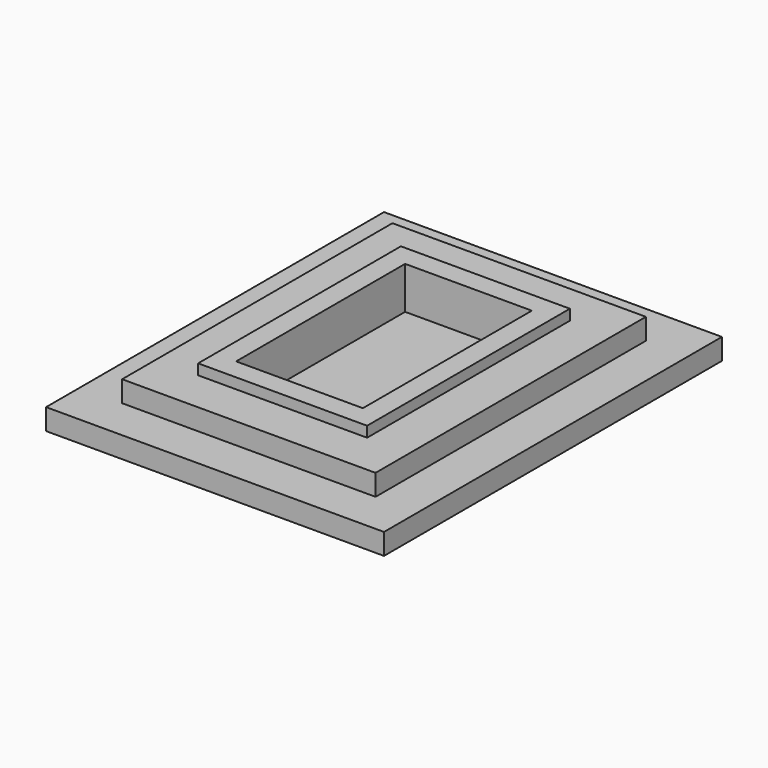
from build123d import *

# Parameters (mm, degrees)
F0_W      = 406.4
F0_H      = 101.6
F1_DEPTH  = 25.4
F2_W      = 50.8
F2_H      = 101.6
F3_DEPTH  = 508
F4_W      = 406.4
F4_H      = 101.6
F5_DEPTH  = 50.8
F6_W      = 406.4
F6_H      = 609.6
F7_DEPTH  = 25.4
F8_W      = 406.4
F8_H      = 50.8
F9_DEPTH  = 203.2
F10_W     = 406.4
F10_H     = 50.8
F11_DEPTH = 101.6
F12_W     = 406.4
F12_H     = 50.8
F13_DEPTH = 203.2
F14_W     = 406.4
F14_H     = 50.8
F15_DEPTH = 101.6
F17_DEPTH = 203.2
F18_W     = 812.8
F18_H     = 50.8
F19_DEPTH = 101.6
F20_W     = 1016
F20_H     = 50.8
F21_DEPTH = 203.2
F22_W     = 812.8
F22_H     = 50.8
F23_DEPTH = 101.6


with BuildPart() as f1:
    # F0 (on Front) → F1 (new body, symmetric)
    with BuildSketch(Plane.XZ):
        Rectangle(F0_W, F0_H)
    extrude(amount=F1_DEPTH, both=True)

    # F2 (on face) → F3 (join)
    with BuildSketch(Plane(origin=(0, 25.4, 0), x_dir=(-1, 0, 0), z_dir=(0, 1, 0))):
        with Locations((-177.8, 0)):
            Rectangle(F2_W, F2_H)
        with Locations((177.8, 0)):
            Rectangle(F2_W, F2_H)
    extrude(amount=F3_DEPTH)

    # F4 (on face) → F5 (join)
    with BuildSketch(Plane(origin=(0, 533.4, 0), x_dir=(-1, 0, 0), z_dir=(0, 1, 0))):
        Rectangle(F4_W, F4_H)
    extrude(amount=F5_DEPTH)

    # F6 (on face) → F7 (join)
    with BuildSketch(Plane(origin=(0, 0, -50.8), x_dir=(1, 0, 0), z_dir=(0, 0, -1))):
        with Locations((0, -279.4)):
            Rectangle(F6_W, F6_H)
    extrude(amount=F7_DEPTH)

    # F8 (on face) → F9 (join)
    with BuildSketch(Plane.XZ.offset(25.4)):
        with Locations((0, -50.8)):
            Rectangle(F8_W, F8_H)
    extrude(amount=F9_DEPTH)

    # F10 (on face) → F11 (join)
    with BuildSketch(Plane.XZ.offset(25.4)):
        Rectangle(F10_W, F10_H)
    extrude(amount=F11_DEPTH)

    # F12 (on face) → F13 (join)
    with BuildSketch(Plane(origin=(0, 584.2, 0), x_dir=(-1, 0, 0), z_dir=(0, 1, 0))):
        with Locations((0, -50.8)):
            Rectangle(F12_W, F12_H)
    extrude(amount=F13_DEPTH)

    # F14 (on face) → F15 (join)
    with BuildSketch(Plane(origin=(0, 584.2, 0), x_dir=(-1, 0, 0), z_dir=(0, 1, 0))):
        Rectangle(F14_W, F14_H)
    extrude(amount=F15_DEPTH)

    # F16 (on face) → F17 (join)
    with BuildSketch(Plane.YZ.offset(203.2)):
        Polygon((-127, -25.4), (-228.6, -25.4), (-228.6, -76.2), (787.4, -76.2), (787.4, -25.4), (685.8, -25.4), align=None)
    extrude(amount=F17_DEPTH)

    # F18 (on face) → F19 (join)
    with BuildSketch(Plane.YZ.offset(203.2)):
        with Locations((279.4, 0)):
            Rectangle(F18_W, F18_H)
    extrude(amount=F19_DEPTH)

    # F20 (on face) → F21 (join)
    with BuildSketch(Plane(origin=(-203.2, 0, 0), x_dir=(0, -1, 0), z_dir=(-1, 0, 0))):
        with Locations((-279.4, -50.8)):
            Rectangle(F20_W, F20_H)
    extrude(amount=F21_DEPTH)

    # F22 (on face) → F23 (join)
    with BuildSketch(Plane(origin=(-203.2, 0, 0), x_dir=(0, -1, 0), z_dir=(-1, 0, 0))):
        with Locations((-279.4, 0)):
            Rectangle(F22_W, F22_H)
    extrude(amount=F23_DEPTH)


solid = f1.part
